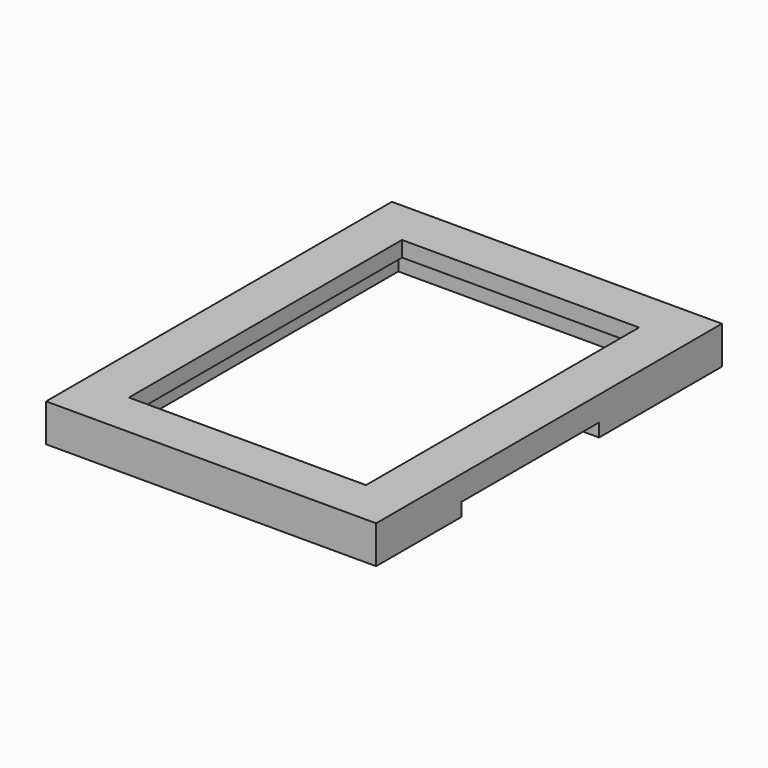
from build123d import *

# Parameters (mm, degrees)
SKETCH003_W     = 161.5
SKETCH003_H     = 211.5
SKETCH003_W_2   = 130
SKETCH003_H_2   = 180
PAD002_DEPTH    = 18.5
SKETCH004_W     = 142.953762
SKETCH004_H     = 192.038153
SKETCH004_W_2   = 116
SKETCH004_H_2   = 167
PAD003_DEPTH    = 7.6
SKETCH011_W     = 36.28281
SKETCH011_H     = 83.99005
POCKET002_DEPTH = 6.5


with BuildPart() as part:
    # Sketch003 (on XY_Plane031 of Origin062) → Pad002 (new body)
    with BuildSketch(Plane.XY):
        with Locations((80.75, 105.75)):
            Rectangle(SKETCH003_W, SKETCH003_H)
        with Locations((80.75, 105.75)):
            Rectangle(SKETCH003_W_2, SKETCH003_H_2, mode=Mode.SUBTRACT)
    extrude(amount=PAD002_DEPTH)

    # Sketch004 (on Face10 of Pad002) → Pad003 (join)
    with BuildSketch(Plane.XY.offset(18.5)):
        with Locations((79.935823, 103.608654)):
            Rectangle(SKETCH004_W, SKETCH004_H)
        with Locations((80.75, 105.75)):
            Rectangle(SKETCH004_W_2, SKETCH004_H_2, mode=Mode.SUBTRACT)
    extrude(amount=-PAD003_DEPTH)

    # Sketch011 (on Face4 of Pad003) → Pocket002 (cut)
    with BuildSketch(Plane(origin=(0, 0, 0), x_dir=(1, 0, 0), z_dir=(0, 0, -1))):
        with Locations((161.891405, -94.345025)):
            Rectangle(SKETCH011_W, SKETCH011_H)
    extrude(amount=-POCKET002_DEPTH, mode=Mode.SUBTRACT)


solid = part.part
